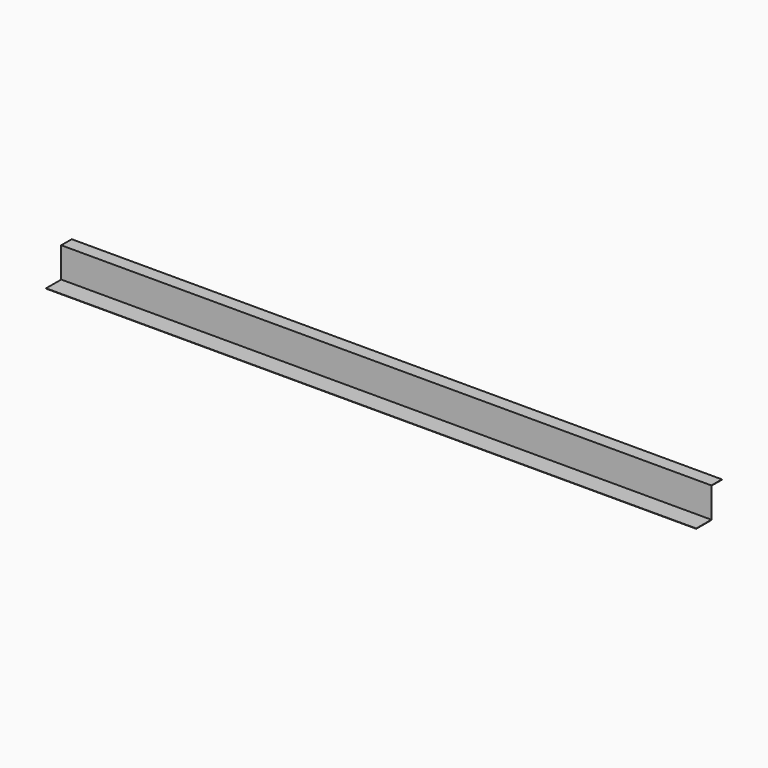
from build123d import *

# Parameters (mm, degrees)
F0_W     = 4050
F0_H     = 118
F1_DEPTH = 2
F0_H_2   = 2
F2_DEPTH = 190
F3_W     = 4050
F3_H     = 80
F4_DEPTH = 2


with BuildPart() as f1:
    # F0 (on Top) → F1 (new body)
    with BuildSketch(Plane.XY):
        with Locations((1915.820207, 3.459525)):
            Rectangle(F0_W, F0_H)
    extrude(amount=F1_DEPTH)


with BuildPart() as f2:
    # F0 (on Top) → F2 (new body)
    with BuildSketch(Plane.XY):
        with Locations((1915.820207, 63.459525)):
            Rectangle(F0_W, F0_H_2)
    extrude(amount=F2_DEPTH)


with BuildPart() as f4:
    # F3 (on face) → F4 (new body)
    with BuildSketch(Plane.XY.offset(190)):
        with Locations((1915.820207, 104.459525)):
            Rectangle(F3_W, F3_H)
    extrude(amount=-F4_DEPTH)


solid = Compound([f1.part, f2.part, f4.part])
